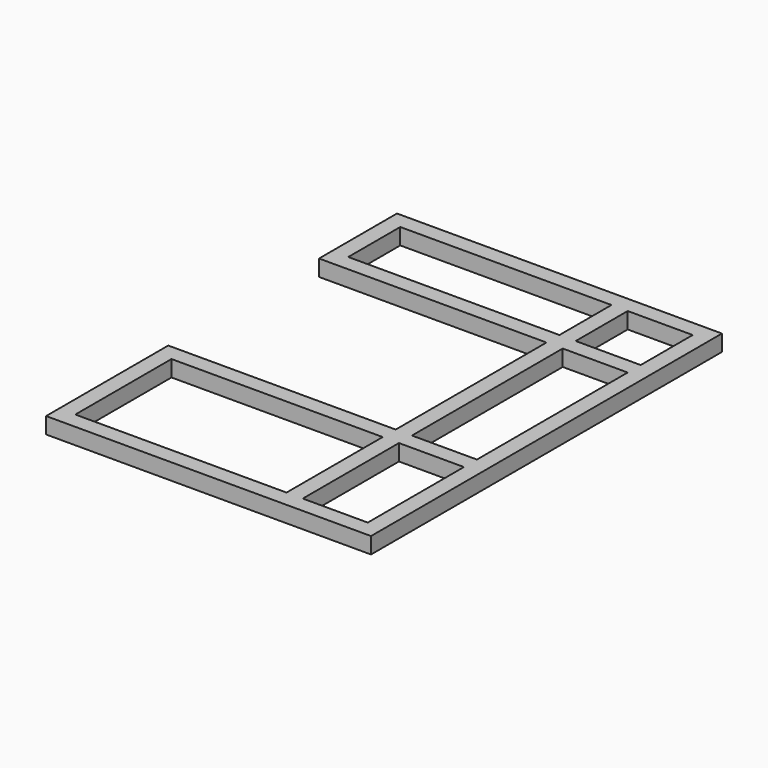
from build123d import *

# Parameters (mm, degrees)
F0_W     = 5
F0_H     = 20
F0_W_2   = 20
F0_H_2   = 5
F0_H_3   = 37
F1_DEPTH = 5


with BuildPart() as f1:
    # F0 (on Top) → F1 (new body)
    with BuildSketch(Plane.XY):
        Polygon((-100, 0), (0, 0), (0, 135), (-100, 135), (-100, 105), (-30, 105), (-30, 47), (-100, 47), align=None)
        Polygon((-95, 110), (-95, 130), (-30, 130), (-25, 130), (-10, 130), (-5, 130), (-5, 125), (-5, 110), (-5, 105), (-5, 47), (-5, 42), (-5, 5), (-25, 5), (-30, 5), (-95, 5), (-95, 42), (-30, 42), (-25, 42), (-25, 47), (-25, 105), (-25, 110), (-30, 110), align=None, mode=Mode.SUBTRACT)
        with Locations((-27.5, 120)):
            Rectangle(F0_W, F0_H)
        with Locations((-15, 107.5)):
            Rectangle(F0_W_2, F0_H_2)
        with Locations((-15, 44.5)):
            Rectangle(F0_W_2, F0_H_2)
        with Locations((-27.5, 23.5)):
            Rectangle(F0_W, F0_H_3)
    extrude(amount=F1_DEPTH)


solid = f1.part
